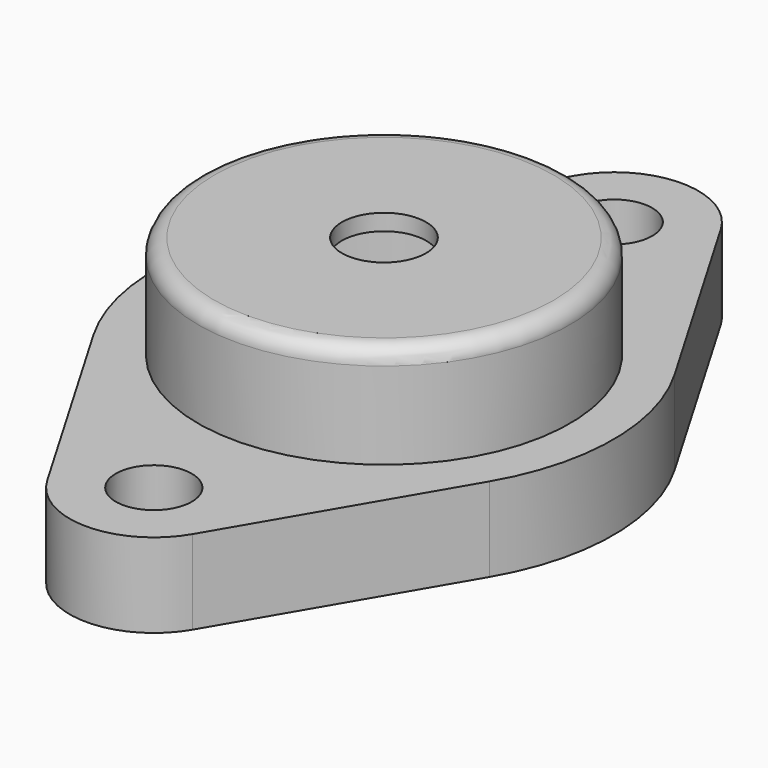
from build123d import *

# Parameters (mm, degrees)
F2_R     = 7.112
F2_R_2   = 31.75
F3_DEPTH = 15.748


with BuildPart() as f1:
    # F0 (on Front) → F1 (revolve)
    with BuildSketch(Plane.XZ):
        with BuildLine():
            Line((-7.874, 32.004), (-7.874, 35.052))
            Line((-7.874, 35.052), (-31.75, 35.052))
            ThreePointArc((-31.75, 35.052), (-33.905261, 34.159261), (-34.798, 32.004))
            Line((-34.798, 32.004), (-34.798, 6.096))
            ThreePointArc((-34.798, 6.096), (-33.905261, 3.940739), (-31.75, 3.048))
            Line((-31.75, 3.048), (-7.874, 3.048))
            Line((-7.874, 3.048), (-7.874, 6.096))
            Line((-7.874, 6.096), (-31.75, 6.096))
            Line((-31.75, 6.096), (-31.75, 32.004))
            Line((-31.75, 32.004), (-7.874, 32.004))
        make_face()
    revolve(axis=Axis((0, 0, 44.822252), (0, 0, -1)))

    # F2 (on Top) → F3 (join)
    with BuildSketch(Plane.XY):
        with BuildLine():
            Line((-37.057366, -21.665481), (-13.59501, -61.796283))
            ThreePointArc((-13.59501, -61.796283), (0, -69.596), (13.59501, -61.796283))
            Line((13.59501, -61.796283), (37.057366, -21.665481))
            ThreePointArc((37.057366, -21.665481), (42.926, 0), (37.057366, 21.665481))
            Line((37.057366, 21.665481), (13.59501, 61.796283))
            ThreePointArc((13.59501, 61.796283), (0, 69.596), (-13.59501, 61.796283))
            Line((-13.59501, 61.796283), (-37.057366, 21.665481))
            ThreePointArc((-37.057366, 21.665481), (-42.926, 0), (-37.057366, -21.665481))
        make_face()
        with Locations((0, -53.848)):
            Circle(F2_R, mode=Mode.SUBTRACT)
        Circle(F2_R_2, mode=Mode.SUBTRACT)
        with Locations((0, 53.848)):
            Circle(F2_R, mode=Mode.SUBTRACT)
    extrude(amount=F3_DEPTH)


solid = f1.part
